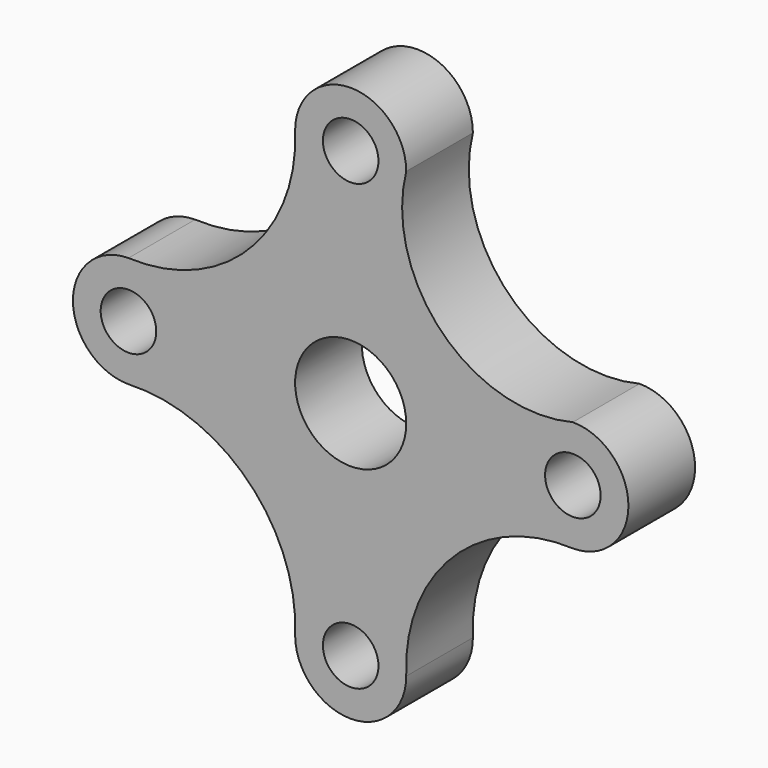
from build123d import *

# Parameters (mm, degrees)
F0_R     = 6.35
F0_R_2   = 12.7
F1_DEPTH = 19.05


with BuildPart() as f1:
    # F0 (on Front) → F1 (new body)
    with BuildSketch(Plane.XZ):
        with BuildLine():
            ThreePointArc((-50.8, 12.7), (-63.5, 0), (-50.8, -12.7))
            ThreePointArc((-50.8, -12.7), (-23.358147, -23.358147), (-12.7, -50.8))
            ThreePointArc((-12.7, -50.8), (0, -63.5), (12.7, -50.8))
            ThreePointArc((12.7, -50.8), (23.357377, -23.359023), (50.797716, -12.7))
            ThreePointArc((50.797716, -12.7), (63.497716, 0), (50.797716, 12.7))
            ThreePointArc((50.797716, 12.7), (20.964403, 20.966191), (12.7, 50.8))
            ThreePointArc((12.7, 50.8), (0, 63.5), (-12.7, 50.8))
            ThreePointArc((-12.7, 50.8), (-23.358147, 23.358147), (-50.8, 12.7))
        make_face()
        with Locations((0, -50.8)):
            Circle(F0_R, mode=Mode.SUBTRACT)
        with Locations((-50.8, 0)):
            Circle(F0_R, mode=Mode.SUBTRACT)
        Circle(F0_R_2, mode=Mode.SUBTRACT)
        with Locations((50.797716, 0)):
            Circle(F0_R, mode=Mode.SUBTRACT)
        with Locations((0, 50.8)):
            Circle(F0_R, mode=Mode.SUBTRACT)
    extrude(amount=F1_DEPTH)


solid = f1.part
